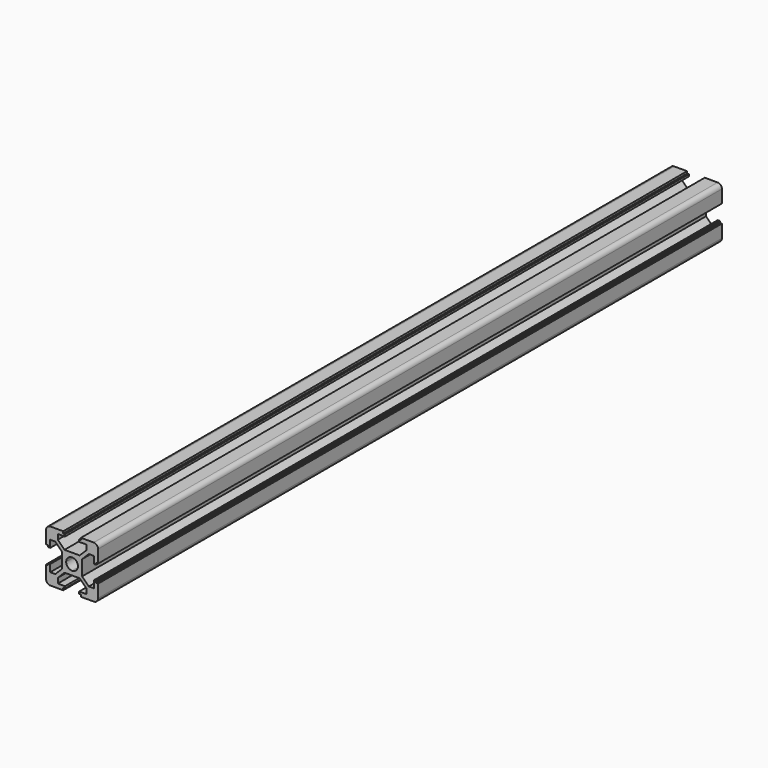
from build123d import *

# Parameters (mm, degrees)
F1_DEPTH = 450


with BuildPart() as f1:
    # F0 (on Front) → F1 (new body)
    with BuildSketch(Plane.XZ):
        with BuildLine():
            Line((12.5, 15), (5.1, 15))
            Line((5.1, 15), (5.1, 13.8))
            Line((5.1, 13.8), (4.1, 13.8))
            Line((4.1, 13.8), (4.1, 12.6))
            Line((4.1, 12.6), (8.25, 12.6))
            Line((8.25, 12.6), (8.25, 9.664214))
            Line((8.25, 9.664214), (5.092893, 6.507107))
            Line((5.092893, 6.507107), (4.385786, 5.8))
            Line((4.385786, 5.8), (0, 5.8))
            Line((0, 5.8), (-4.385786, 5.8))
            Line((-4.385786, 5.8), (-5.092893, 6.507107))
            Line((-5.092893, 6.507107), (-8.25, 9.664214))
            Line((-8.25, 9.664214), (-8.25, 12.6))
            Line((-8.25, 12.6), (-4.1, 12.6))
            Line((-4.1, 12.6), (-4.1, 13.8))
            Line((-4.1, 13.8), (-5.1, 13.8))
            Line((-5.1, 13.8), (-5.1, 15))
            Line((-5.1, 15), (-12.5, 15))
            ThreePointArc((-12.5, 15), (-14.267767, 14.267767), (-15, 12.5))
            Line((-15, 12.5), (-15, 5.1))
            Line((-15, 5.1), (-13.8, 5.1))
            Line((-13.8, 5.1), (-13.8, 4.1))
            Line((-13.8, 4.1), (-12.6, 4.1))
            Line((-12.6, 4.1), (-12.6, 8.25))
            Line((-12.6, 8.25), (-9.664214, 8.25))
            Line((-9.664214, 8.25), (-6.507107, 5.092893))
            Line((-6.507107, 5.092893), (-5.8, 4.385786))
            Line((-5.8, 4.385786), (-5.8, 0))
            Line((-5.8, 0), (-5.8, -4.385786))
            Line((-5.8, -4.385786), (-6.507107, -5.092893))
            Line((-6.507107, -5.092893), (-9.664214, -8.25))
            Line((-9.664214, -8.25), (-12.6, -8.25))
            Line((-12.6, -8.25), (-12.6, -4.1))
            Line((-12.6, -4.1), (-13.8, -4.1))
            Line((-13.8, -4.1), (-13.8, -5.1))
            Line((-13.8, -5.1), (-15, -5.1))
            Line((-15, -5.1), (-15, -12.5))
            ThreePointArc((-15, -12.5), (-14.267767, -14.267767), (-12.5, -15))
            Line((-12.5, -15), (-5.1, -15))
            Line((-5.1, -15), (-5.1, -13.8))
            Line((-5.1, -13.8), (-4.1, -13.8))
            Line((-4.1, -13.8), (-4.1, -12.6))
            Line((-4.1, -12.6), (-8.25, -12.6))
            Line((-8.25, -12.6), (-8.25, -9.664214))
            Line((-8.25, -9.664214), (-5.092893, -6.507107))
            Line((-5.092893, -6.507107), (-4.385786, -5.8))
            Line((-4.385786, -5.8), (0, -5.8))
            Line((0, -5.8), (4.385786, -5.8))
            Line((4.385786, -5.8), (5.092893, -6.507107))
            Line((5.092893, -6.507107), (8.25, -9.664214))
            Line((8.25, -9.664214), (8.25, -12.6))
            Line((8.25, -12.6), (4.1, -12.6))
            Line((4.1, -12.6), (4.1, -13.8))
            Line((4.1, -13.8), (5.1, -13.8))
            Line((5.1, -13.8), (5.1, -15))
            Line((5.1, -15), (12.5, -15))
            ThreePointArc((12.5, -15), (14.267767, -14.267767), (15, -12.5))
            Line((15, -12.5), (15, -5.1))
            Line((15, -5.1), (13.8, -5.1))
            Line((13.8, -5.1), (13.8, -4.1))
            Line((13.8, -4.1), (12.6, -4.1))
            Line((12.6, -4.1), (12.6, -8.25))
            Line((12.6, -8.25), (9.664214, -8.25))
            Line((9.664214, -8.25), (6.507107, -5.092893))
            Line((6.507107, -5.092893), (5.8, -4.385786))
            Line((5.8, -4.385786), (5.8, 0))
            Line((5.8, 0), (5.8, 4.385786))
            Line((5.8, 4.385786), (6.507107, 5.092893))
            Line((6.507107, 5.092893), (9.664214, 8.25))
            Line((9.664214, 8.25), (12.6, 8.25))
            Line((12.6, 8.25), (12.6, 4.1))
            Line((12.6, 4.1), (13.8, 4.1))
            Line((13.8, 4.1), (13.8, 5.1))
            Line((13.8, 5.1), (15, 5.1))
            Line((15, 5.1), (15, 12.5))
            ThreePointArc((15, 12.5), (14.267767, 14.267767), (12.5, 15))
        make_face()
        with BuildLine():
            ThreePointArc((-3.4, 0), (-2.404163, 2.404163), (0, 3.4))
            ThreePointArc((0, 3.4), (2.404163, 2.404163), (3.4, 0))
            ThreePointArc((3.4, 0), (2.404163, -2.404163), (0, -3.4))
            ThreePointArc((0, -3.4), (-2.404163, -2.404163), (-3.4, 0))
        make_face(mode=Mode.SUBTRACT)
    extrude(amount=F1_DEPTH)


solid = f1.part
